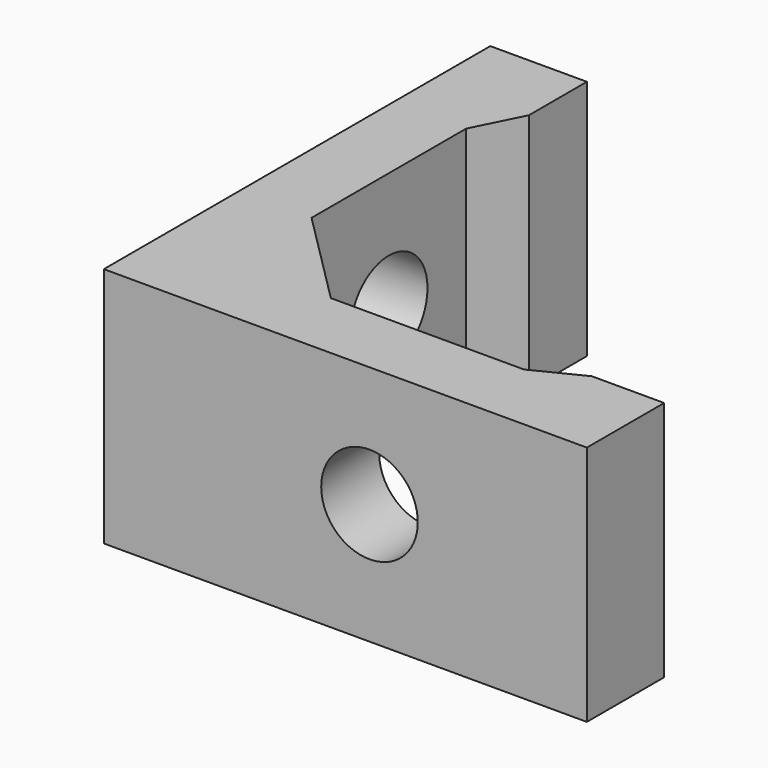
from build123d import *

# Parameters (mm, degrees)
F1_DEPTH = 10
F2_R     = 2
F3_DEPTH = 5
F4_R     = 2
F5_DEPTH = 5


with BuildPart() as f1:
    # F0 (on Top) → F1 (new body)
    with BuildSketch(Plane.XY):
        Polygon((0, 20), (0, 0), (20, 0), (20, 4), (17, 4), (15, 3), (7, 3), (5, 5), (3, 7), (3, 15), (4, 17), (4, 20), align=None)
    extrude(amount=F1_DEPTH)

    # F2 (on face) → F3 (cut)
    with BuildSketch(Plane.YZ.offset(3)):
        with Locations((11, 5)):
            Circle(F2_R)
    extrude(amount=-F3_DEPTH, mode=Mode.SUBTRACT)

    # F4 (on face) → F5 (cut)
    with BuildSketch(Plane(origin=(0, 3, 0), x_dir=(-1, 0, 0), z_dir=(0, 1, 0))):
        with Locations((-11, 5)):
            Circle(F4_R)
    extrude(amount=-F5_DEPTH, mode=Mode.SUBTRACT)


solid = f1.part
